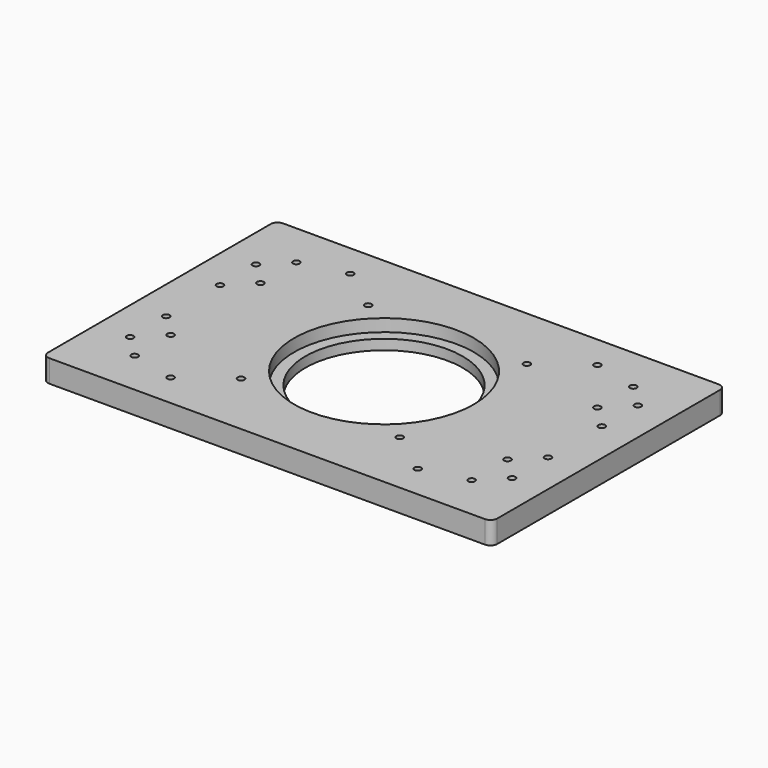
from build123d import *

# Parameters (mm, degrees)
SKETCH_W     = 200
SKETCH_H     = 130
SKETCH_R     = 35
SKETCH_R_2   = 1.5
PAD_DEPTH    = 10
SKETCH001_R  = 40
POCKET_DEPTH = 5.5
FILLET_R     = 3


with BuildPart() as part:
    # Sketch → Pad (new body)
    with BuildSketch(Plane.XY):
        with Locations((100, 65)):
            Rectangle(SKETCH_W, SKETCH_H)
        with Locations((100, 65)):
            Circle(SKETCH_R, mode=Mode.SUBTRACT)
        with Locations((45, 115)):
            Circle(SKETCH_R_2, mode=Mode.SUBTRACT)
        with Locations((45, 15)):
            Circle(SKETCH_R_2, mode=Mode.SUBTRACT)
        with Locations((155, 115)):
            Circle(SKETCH_R_2, mode=Mode.SUBTRACT)
        with Locations((155, 15)):
            Circle(SKETCH_R_2, mode=Mode.SUBTRACT)
        with Locations((185, 30)):
            Circle(SKETCH_R_2, mode=Mode.SUBTRACT)
        with Locations((135.353085, 100.338453)):
            Circle(SKETCH_R_2, mode=Mode.SUBTRACT)
        with Locations((64.627773, 29.642413)):
            Circle(SKETCH_R_2, mode=Mode.SUBTRACT)
        with Locations((64.64463, 100.35537)):
            Circle(SKETCH_R_2, mode=Mode.SUBTRACT)
        with Locations((135.352442, 29.63292)):
            Circle(SKETCH_R_2, mode=Mode.SUBTRACT)
        with Locations((175, 20)):
            Circle(SKETCH_R_2, mode=Mode.SUBTRACT)
        with Locations((175, 40)):
            Circle(SKETCH_R_2, mode=Mode.SUBTRACT)
        with Locations((185, 50)):
            Circle(SKETCH_R_2, mode=Mode.SUBTRACT)
        with Locations((175, 90)):
            Circle(SKETCH_R_2, mode=Mode.SUBTRACT)
        with Locations((175, 110)):
            Circle(SKETCH_R_2, mode=Mode.SUBTRACT)
        with Locations((185, 80)):
            Circle(SKETCH_R_2, mode=Mode.SUBTRACT)
        with Locations((185, 100)):
            Circle(SKETCH_R_2, mode=Mode.SUBTRACT)
        with Locations((15, 30)):
            Circle(SKETCH_R_2, mode=Mode.SUBTRACT)
        with Locations((25, 20)):
            Circle(SKETCH_R_2, mode=Mode.SUBTRACT)
        with Locations((25, 40)):
            Circle(SKETCH_R_2, mode=Mode.SUBTRACT)
        with Locations((15, 50)):
            Circle(SKETCH_R_2, mode=Mode.SUBTRACT)
        with Locations((25, 90)):
            Circle(SKETCH_R_2, mode=Mode.SUBTRACT)
        with Locations((25, 110)):
            Circle(SKETCH_R_2, mode=Mode.SUBTRACT)
        with Locations((15, 80)):
            Circle(SKETCH_R_2, mode=Mode.SUBTRACT)
        with Locations((15, 100)):
            Circle(SKETCH_R_2, mode=Mode.SUBTRACT)
    extrude(amount=PAD_DEPTH)

    # Sketch001 (on Face31 of Pad) → Pocket (cut)
    with BuildSketch(Plane.XY.offset(10)):
        with Locations((100, 65)):
            Circle(SKETCH001_R)
    extrude(amount=-POCKET_DEPTH, mode=Mode.SUBTRACT)

    # Fillet
    fillet_edges = [part.edges().sort_by_distance(p)[0] for p in [
        (200, 0, 5),
        (200, 130, 5),
        (0, 0, 5),
        (0, 130, 5),
    ]]
    fillet(fillet_edges, radius=FILLET_R)


solid = part.part
